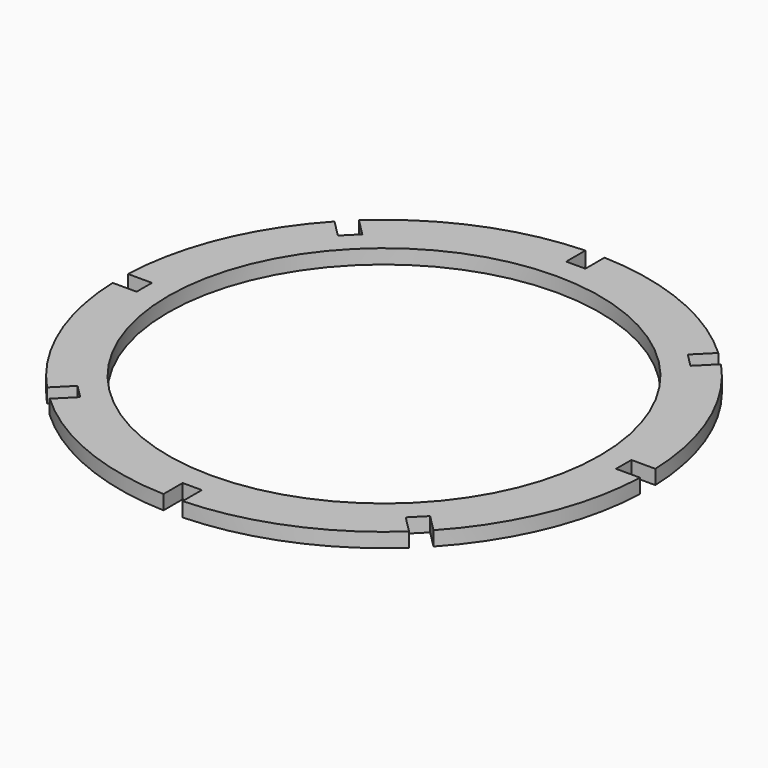
from build123d import *

# Parameters (mm, degrees)
F0_R     = 45
F1_DEPTH = 3


with BuildPart() as f1:
    # F0 (on Top) → F1 (new body)
    with BuildSketch(Plane.XY):
        with BuildLine():
            Line((49.963624, 2), (54.963624, 2))
            ThreePointArc((54.963624, 2), (50.813374, 21.047589), (40.279365, 37.450938))
            Line((40.279365, 37.450938), (36.743831, 33.915404))
            Line((36.743831, 33.915404), (33.915404, 36.743831))
            Line((33.915404, 36.743831), (37.450938, 40.279365))
            ThreePointArc((37.450938, 40.279365), (21.047589, 50.813374), (2, 54.963624))
            Line((2, 54.963624), (2, 49.963624))
            Line((2, 49.963624), (-2, 49.963624))
            Line((-2, 49.963624), (-2, 54.963624))
            ThreePointArc((-2, 54.963624), (-21.047589, 50.813374), (-37.450938, 40.279365))
            Line((-37.450938, 40.279365), (-33.915404, 36.743831))
            Line((-33.915404, 36.743831), (-36.743831, 33.915404))
            Line((-36.743831, 33.915404), (-40.279365, 37.450938))
            ThreePointArc((-40.279365, 37.450938), (-50.813374, 21.047589), (-54.963624, 2))
            Line((-54.963624, 2), (-49.963624, 2))
            Line((-49.963624, 2), (-49.963624, -2))
            Line((-49.963624, -2), (-54.963624, -2))
            ThreePointArc((-54.963624, -2), (-50.813374, -21.047589), (-40.279365, -37.450938))
            Line((-40.279365, -37.450938), (-36.743831, -33.915404))
            Line((-36.743831, -33.915404), (-33.915404, -36.743831))
            Line((-33.915404, -36.743831), (-37.450938, -40.279365))
            ThreePointArc((-37.450938, -40.279365), (-21.047589, -50.813374), (-2, -54.963624))
            Line((-2, -54.963624), (-2, -49.963624))
            Line((-2, -49.963624), (0, -49.963624))
            Line((0, -49.963624), (2, -49.963624))
            Line((2, -49.963624), (2, -54.963624))
            ThreePointArc((2, -54.963624), (21.047589, -50.813374), (37.450938, -40.279365))
            Line((37.450938, -40.279365), (33.915404, -36.743831))
            Line((33.915404, -36.743831), (36.743831, -33.915404))
            Line((36.743831, -33.915404), (40.279365, -37.450938))
            ThreePointArc((40.279365, -37.450938), (50.813374, -21.047589), (54.963624, -2))
            Line((54.963624, -2), (49.963624, -2))
            Line((49.963624, -2), (49.963624, 2))
        make_face()
        Circle(F0_R, mode=Mode.SUBTRACT)
    extrude(amount=F1_DEPTH)


solid = f1.part
